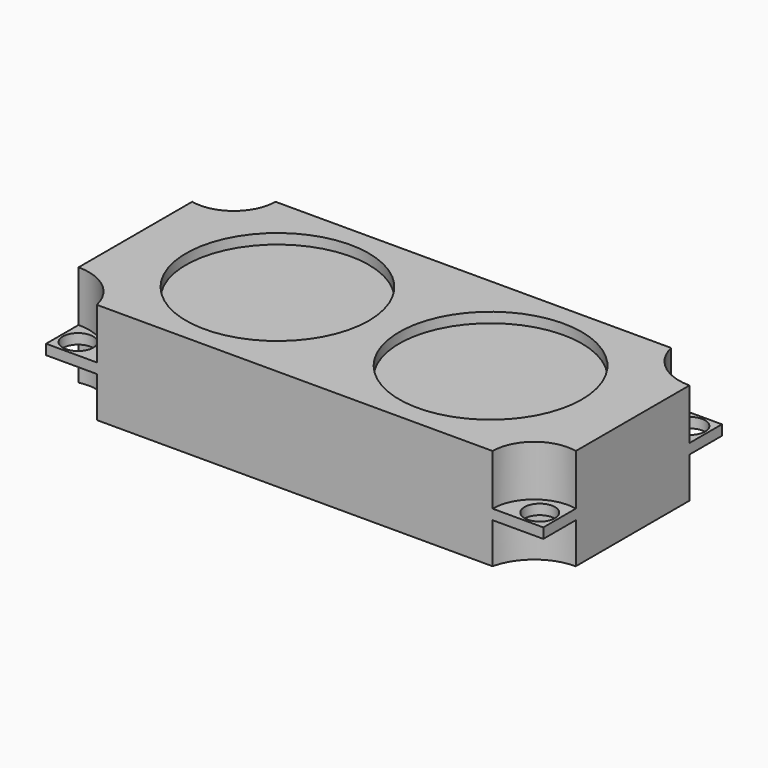
from build123d import *

# Parameters (mm, degrees)
SKETCH002_W     = 98
SKETCH002_H     = 44
PAD001_DEPTH    = 20
POCKET001_DEPTH = 10
POCKET002_DEPTH = 8
SKETCH005_R     = 3
HOLE_DEPTH      = 25
SKETCH006_R     = 18
POCKET003_DEPTH = 2


with BuildPart() as part:
    # Sketch002 → Pad001 (new body)
    with BuildSketch(Plane.XY):
        with Locations((49, 22)):
            Rectangle(SKETCH002_W, SKETCH002_H)
    extrude(amount=PAD001_DEPTH)

    # Sketch003 (on Face6 of Pad001) → Pocket001 (cut)
    with BuildSketch(Plane.XY.offset(20)):
        with BuildLine():
            Line((0, 44), (0, 36))
            ThreePointArc((0, 36), (6.922499, 37.596876), (10, 44))
            Line((0, 44), (10, 44))
        make_face()
        with BuildLine():
            Line((0, 0), (0, 8))
            ThreePointArc((10, 0), (6.403124, 5.753905), (0, 8))
            Line((0, 0), (10, 0))
        make_face()
        with BuildLine():
            Line((98, 36), (98, 44))
            Line((98, 44), (88, 44))
            ThreePointArc((88, 44), (91.596876, 38.246095), (98, 36))
        make_face()
        with BuildLine():
            Line((88, 0), (98, 0))
            Line((98, 0), (98, 8))
            ThreePointArc((98, 8), (91.077501, 6.403124), (88, 0))
        make_face()
    extrude(amount=-POCKET001_DEPTH, mode=Mode.SUBTRACT)

    # Sketch004 (on Face2 of Pocket001) → Pocket002 (cut)
    with BuildSketch(Plane(origin=(0, 0, 0), x_dir=(1, 0, 0), z_dir=(0, 0, -1))):
        with BuildLine():
            Line((10, -44), (0, -44))
            Line((0, -36), (0, -44))
            ThreePointArc((10, -44), (6.403124, -38.246095), (0, -36))
        make_face()
        with BuildLine():
            Line((0, 0), (0, -8))
            ThreePointArc((0, -8), (6.922499, -6.403124), (10, 0))
            Line((0, 0), (10, 0))
        make_face()
        with BuildLine():
            Line((98, 0), (88, 0))
            ThreePointArc((88, 0), (91.596876, -5.753905), (98, -8))
            Line((98, 0), (98, -8))
        make_face()
        with BuildLine():
            Line((88, -44), (98, -44))
            Line((98, -44), (98, -36))
            ThreePointArc((98, -36), (91.077501, -37.596876), (88, -44))
        make_face()
    extrude(amount=-POCKET002_DEPTH, mode=Mode.SUBTRACT)

    # Sketch005 (on Face21 of Pocket002) → Hole (cut)
    with BuildSketch(Plane.XY.offset(10)):
        with Locations((3.5, 3.5)):
            Circle(SKETCH005_R)
        with Locations((3.5, 40.5)):
            Circle(SKETCH005_R)
        with Locations((94.5, 40.5)):
            Circle(SKETCH005_R)
        with Locations((94.5, 3.5)):
            Circle(SKETCH005_R)
    extrude(amount=-HOLE_DEPTH, mode=Mode.SUBTRACT)

    # Sketch006 (on Face8 of Hole) → Pocket003 (cut)
    with BuildSketch(Plane.XY.offset(20)):
        with Locations((28, 22)):
            Circle(SKETCH006_R)
        with Locations((70, 22)):
            Circle(SKETCH006_R)
    extrude(amount=-POCKET003_DEPTH, mode=Mode.SUBTRACT)


with BuildPart() as part_1:
    # Body001 placement: moved
    add(part.part.moved(Location((4.995761, -71.651041, 0))))


solid = part_1.part
